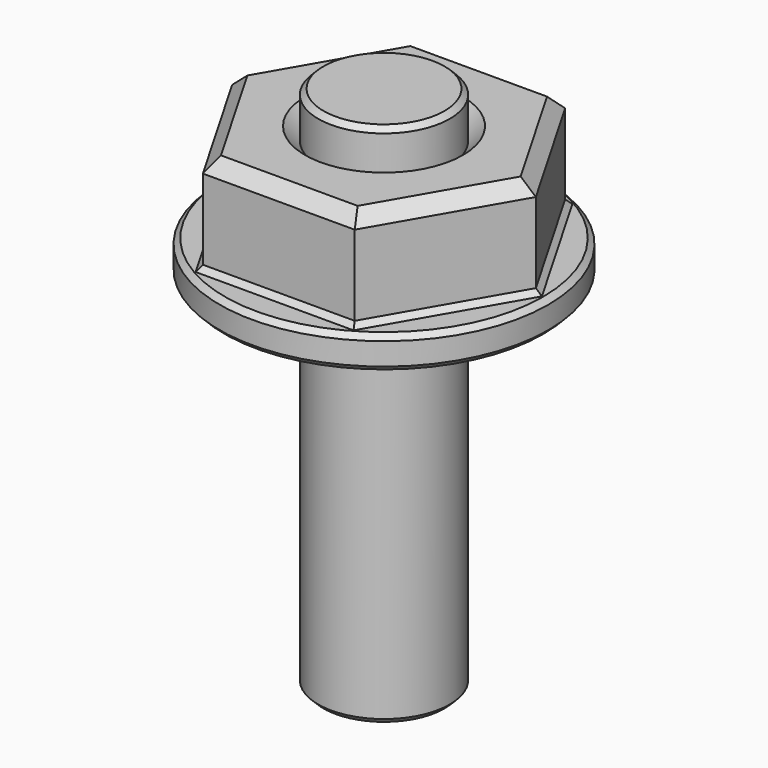
from build123d import *

# Parameters (mm, degrees)
F0_R          = 15.875
F0_R_2        = 6.35
F1_DEPTH      = 3.175
F2_DEPTH      = 9.525
F3_SIZE       = 1.27
F4_DEPTH      = 25.4
F5_SIZE       = 0.508
F6_DEPTH      = 12.7
F6_DEPTH_BACK = 38.1
F7_SIZE       = 0.508


with BuildPart() as f1:
    # F0 (on Top) → F1 (new body)
    with BuildSketch(Plane.XY):
        Circle(F0_R)
        Polygon((-14.6646968374, 0), (-7.3323484187, 12.7), (7.3323484187, 12.7), (14.6646968374, 0), (7.3323484187, -12.7), (-7.3323484187, -12.7), align=None, mode=Mode.SUBTRACT)
        Polygon((7.3323484187, 12.7), (-7.3323484187, 12.7), (-14.6646968374, 0), (-7.3323484187, -12.7), (7.3323484187, -12.7), (14.6646968374, 0), align=None)
        Circle(F0_R_2, mode=Mode.SUBTRACT)
        Circle(F0_R_2)
    extrude(amount=-F1_DEPTH)

    # F0 (on Top) → F2 (join)
    with BuildSketch(Plane.XY):
        Polygon((7.3323484187, 12.7), (-7.3323484187, 12.7), (-14.6646968374, 0), (-7.3323484187, -12.7), (7.3323484187, -12.7), (14.6646968374, 0), align=None)
        Circle(F0_R_2, mode=Mode.SUBTRACT)
    extrude(amount=F2_DEPTH)

    # F3
    f3_edges = [f1.edges().sort_by_distance(p)[0] for p in [
        (0, 12.7, 9.525),
        (-10.998523, 6.35, 9.525),
        (-10.998523, -6.35, 9.525),
        (0, -12.7, 9.525),
        (10.998523, -6.35, 9.525),
        (10.998523, 6.35, 9.525),
        (-6.35, 0, 9.525),
    ]]
    chamfer(f3_edges, length=F3_SIZE)

    # F0 (on Top) → F4 (cut)
    with BuildSketch(Plane.XY):
        Circle(F0_R_2)
    extrude(amount=-F4_DEPTH, mode=Mode.SUBTRACT)

    # F5
    f5_edges = [f1.edges().sort_by_distance(p)[0] for p in [
        (-15.875, 0, -3.175),
        (-6.35, 0, -3.175),
        (-15.875, 0, 0),
        (0, 12.7, 0),
        (-10.998523, 6.35, 0),
        (-10.998523, -6.35, 0),
        (0, -12.7, 0),
        (10.998523, -6.35, 0),
        (10.998523, 6.35, 0),
    ]]
    chamfer(f5_edges, length=F5_SIZE)


with BuildPart() as f6:
    # F0 (on Top) → F6 (new body, two sides)
    with BuildSketch(Plane.XY) as f6_sk:
        Circle(F0_R_2)
    extrude(amount=F6_DEPTH)
    extrude(f6_sk.sketch, amount=-F6_DEPTH_BACK)

    # F7
    f7_edges = [f6.edges().sort_by_distance(p)[0] for p in [
        (-6.35, 0, 12.7),
        (-6.35, 0, -38.1),
    ]]
    chamfer(f7_edges, length=F7_SIZE)


solid = Compound([f1.part, f6.part])
